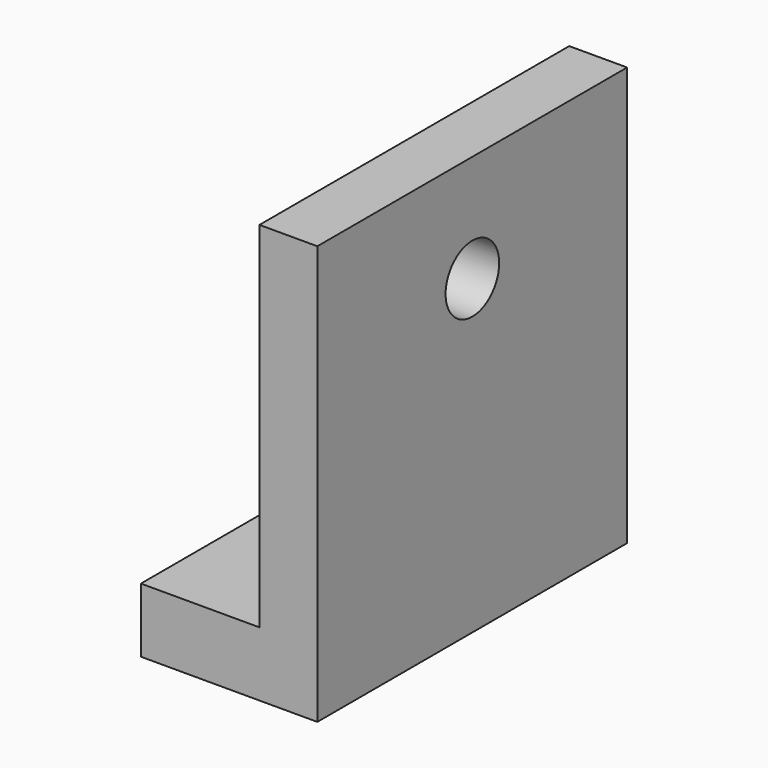
from build123d import *

# Parameters (mm, degrees)
F1_DEPTH = 66.04
F0_W     = 18.697526
F0_H     = 30.504273
F0_H_2   = 30.559674
F2_DEPTH = 10.16
F3_R     = 5.279602
F4_DEPTH = 25.4
F6_DEPTH = 25.4


with BuildPart() as f1:
    # F0 (on Top) → F1 (new body)
    with BuildSketch(Plane.XY):
        Polygon((0, 30.504273), (0, 0), (0, -30.559674), (9.12961, -30.559674), (9.12961, 30.504273), align=None)
    extrude(amount=F1_DEPTH)

    # F0 (on Top) → F2 (join)
    with BuildSketch(Plane.XY):
        with Locations((-9.348763, 15.252136)):
            Rectangle(F0_W, F0_H)
        with Locations((-9.348763, -15.279837)):
            Rectangle(F0_W, F0_H_2)
    extrude(amount=F2_DEPTH)

    # F3 (on face) → F4 (cut)
    with BuildSketch(Plane.YZ.offset(9.12961)):
        with Locations((0, 49.131077)):
            Circle(F3_R)
    extrude(amount=-F4_DEPTH, mode=Mode.SUBTRACT)

    # F5 (on face) → F6 (cut)
    with BuildSketch(Plane.XY.offset(10.16)):
        with BuildLine():
            ThreePointArc((-12.458752, -3.593451), (-9.917798, -2.540954), (-8.8653, 0))
            ThreePointArc((-8.8653, 0), (-9.917798, 2.540954), (-12.458752, 3.593451))
            Line((-12.458752, 3.593451), (-12.458752, 0))
            Line((-12.458752, 0), (-12.458752, -3.593451))
        make_face()
        with BuildLine():
            Line((-12.458752, 0), (-12.458752, 3.593451))
            ThreePointArc((-12.458752, 3.593451), (-16.052203, 0), (-12.458752, -3.593451))
            Line((-12.458752, -3.593451), (-12.458752, 0))
        make_face()
        with BuildLine():
            ThreePointArc((-12.458752, -3.593451), (-16.052203, 0), (-12.458752, 3.593451))
            Line((-12.458752, 3.593451), (-18.697526, 3.593451))
            Line((-18.697526, 3.593451), (-18.697526, -3.593451))
            Line((-18.697526, -3.593451), (-12.458752, -3.593451))
        make_face()
    extrude(amount=-F6_DEPTH, mode=Mode.SUBTRACT)


solid = f1.part
